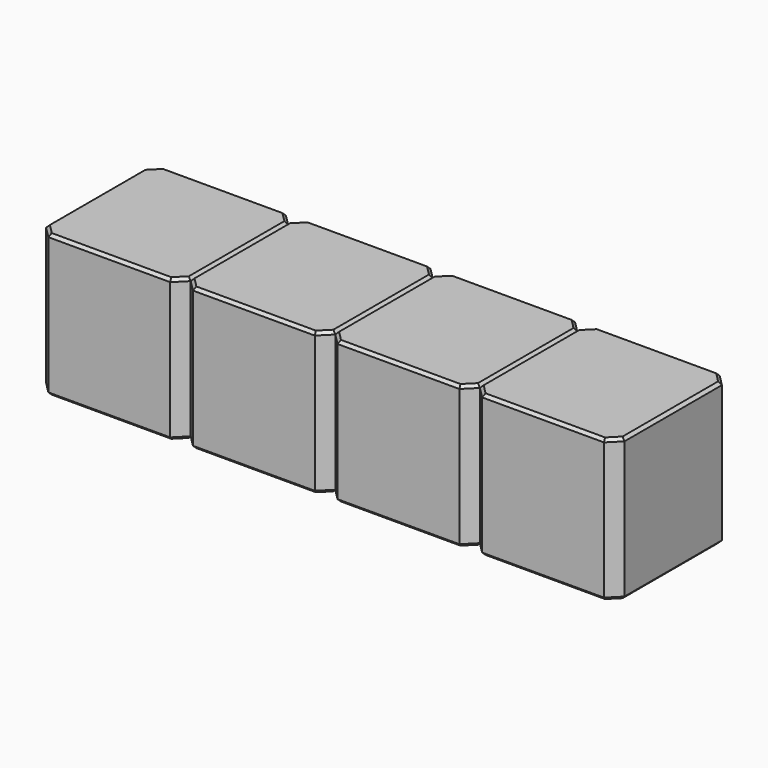
from build123d import *

# Parameters (mm, degrees)
SKETCH220_W      = 2.54
SKETCH220_H      = 2.54
PAD075_DEPTH     = 2.5
CHAMFER032_SIZE  = 0.2
CHAMFER031_SIZE  = 0.05
ARRAY007_X_COUNT = 4
ARRAY007_X_PITCH = 2.54


with BuildPart() as array007:
    # Sketch220 → Pad075 (new body)
    with BuildSketch(Plane.XY):
        Rectangle(SKETCH220_W, SKETCH220_H)
    extrude(amount=PAD075_DEPTH)

    # Chamfer032
    chamfer032_edges = [array007.edges().sort_by_distance(p)[0] for p in [
        (1.27, -1.27, 1.25),
        (-1.27, -1.27, 1.25),
        (1.27, 1.27, 1.25),
        (-1.27, 1.27, 1.25),
    ]]
    chamfer(chamfer032_edges, length=CHAMFER032_SIZE)

    # Chamfer031
    chamfer031_edges = [array007.edges().sort_by_distance(p)[0] for p in [
        (0, -1.27, 2.5),
        (-1.17, -1.17, 2.5),
        (1.17, -1.17, 2.5),
        (-1.27, 0, 2.5),
        (1.27, 0, 2.5),
        (-1.17, 1.17, 2.5),
        (1.17, 1.17, 2.5),
        (0, 1.27, 2.5),
        (0, -1.27, 0),
        (-1.17, -1.17, 0),
        (1.17, -1.17, 0),
        (-1.27, 0, 0),
        (1.27, 0, 0),
        (-1.17, 1.17, 0),
        (1.17, 1.17, 0),
        (0, 1.27, 0),
    ]]
    chamfer(chamfer031_edges, length=CHAMFER031_SIZE)


with BuildPart() as array007_copy1:
    # Array007 X: instance of Array007
    add(array007.part.moved(Location(Vector(1, 0, 0) * (1 * ARRAY007_X_PITCH))))


with BuildPart() as array007_copy2:
    # Array007 X: instance of Array007
    add(array007.part.moved(Location(Vector(1, 0, 0) * (2 * ARRAY007_X_PITCH))))


with BuildPart() as array007_copy3:
    # Array007 X: instance of Array007
    add(array007.part.moved(Location(Vector(1, 0, 0) * (3 * ARRAY007_X_PITCH))))


solid = Compound([array007.part, array007_copy1.part, array007_copy2.part, array007_copy3.part])
